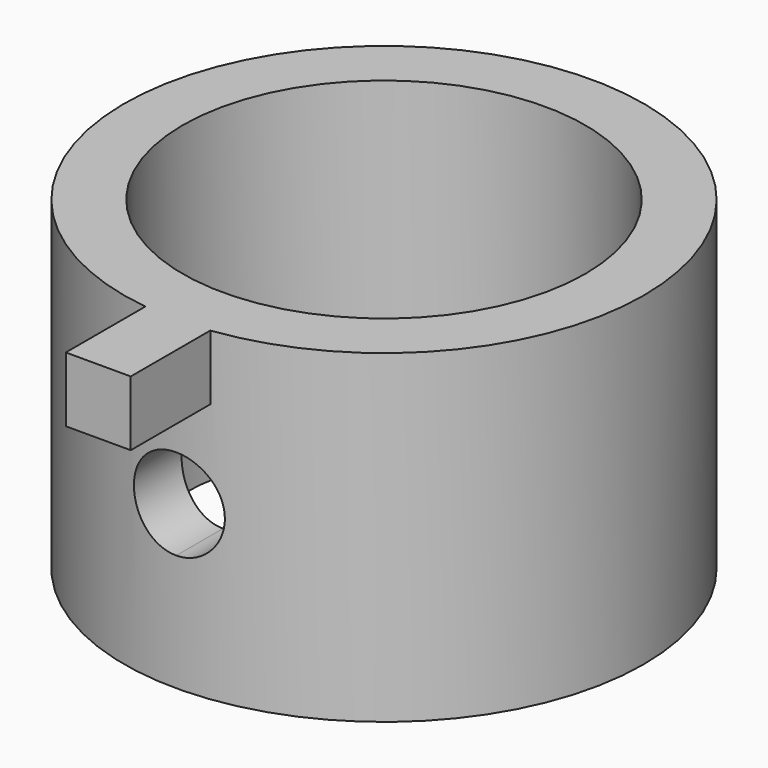
from build123d import *

# Parameters (mm, degrees)
F0_R     = 10.16
F1_DEPTH = 12.7
F3_DEPTH = 13.97
F5_DEPTH = 10.16
F7_D     = 15.748


with BuildPart() as f1:
    # F0 (on Top) → F1 (new body)
    with BuildSketch(Plane.XY):
        Circle(F0_R)
    extrude(amount=F1_DEPTH)

    # F2 (on Front) → F3 (join)
    with BuildSketch(Plane.XZ):
        Polygon((-1.27, 12.7), (-1.27, 10.16), (0, 10.16), (1.27, 10.16), (1.27, 12.7), align=None)
    extrude(amount=F3_DEPTH)

    # F4 (on Front) → F5 (cut, through all)
    with BuildSketch(Plane.XZ):
        with BuildLine():
            ThreePointArc((0, 4.572), (1.257236, 5.092764), (1.778, 6.35))
            ThreePointArc((1.778, 6.35), (-1.257236, 7.607236), (0, 4.572))
        make_face()
    extrude(amount=F5_DEPTH, mode=Mode.SUBTRACT)

    # F7 (through all)
    with Locations(Plane(origin=(0, 0, 0), x_dir=(1, 0, 0), z_dir=(0, 0, -1))):
        with Locations((0, 0)):
            Hole(F7_D / 2)


solid = f1.part
